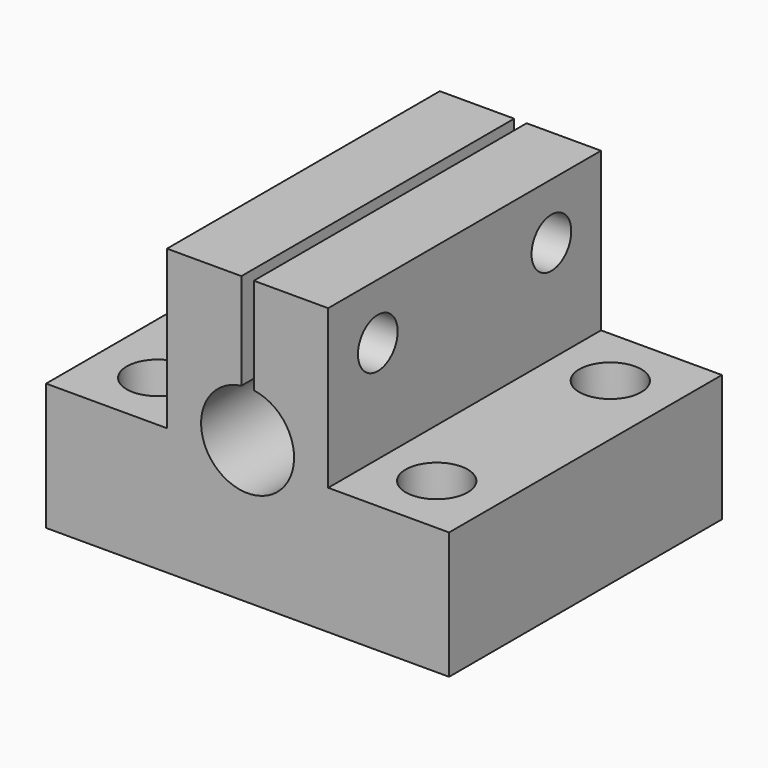
from build123d import *

# Parameters (mm, degrees)
F0_W      = 65
F0_H      = 55
F1_DEPTH  = 20.5
F2_W      = 12
F2_H      = 55
F3_DEPTH  = 25.5
F5_DEPTH  = 74.8
F7_DEPTH  = 37.2
F9_R      = 5
F9_R_2    = 3.3
F10_DEPTH = 6
F8_R      = 3.3
F11_DEPTH = 45.5


with BuildPart() as f1:
    # F0 (on Top) → F1 (new body)
    with BuildSketch(Plane.XY):
        with Locations((32.5, 27.5)):
            Rectangle(F0_W, F0_H)
    extrude(amount=F1_DEPTH)

    # F2 (on face) → F3 (join)
    with BuildSketch(Plane.XY.offset(20.5)):
        with Locations((25.5, 27.5)):
            Rectangle(F2_W, F2_H)
        with Locations((39.5, 27.5)):
            Rectangle(F2_W, F2_H)
    extrude(amount=F3_DEPTH)

    # F4 (on face) → F5 (cut)
    with BuildSketch(Plane.XZ):
        with BuildLine():
            ThreePointArc((25, 23), (32.5, 15.5), (40, 23))
            ThreePointArc((40, 23), (32.5, 30.5), (25, 23))
        make_face()
    extrude(amount=-F5_DEPTH, mode=Mode.SUBTRACT)

    # F6 (on face) → F7 (cut)
    with BuildSketch(Plane(origin=(19.5, 0, 0), x_dir=(0, -1, 0), z_dir=(-1, 0, 0))):
        with BuildLine():
            ThreePointArc((-45, 41), (-47.8284271247, 34.1715728753), (-41, 37))
            ThreePointArc((-41, 37), (-42.1715728753, 39.8284271247), (-45, 41))
        make_face()
        with BuildLine():
            ThreePointArc((-10, 41), (-12.8284271247, 34.1715728753), (-6, 37))
            ThreePointArc((-6, 37), (-7.1715728753, 39.8284271247), (-10, 41))
        make_face()
    extrude(amount=-F7_DEPTH, mode=Mode.SUBTRACT)

    # F9 (on face) → F10 (cut)
    with BuildSketch(Plane.XY.offset(20.5)):
        with Locations((55, 45)):
            Circle(F9_R)
        with Locations((55, 45)):
            Circle(F9_R_2, mode=Mode.SUBTRACT)
        with BuildLine():
            ThreePointArc((15, 45), (10, 50), (5, 45))
            ThreePointArc((5, 45), (10, 40), (15, 45))
        make_face()
        with BuildLine():
            ThreePointArc((13.3, 45), (10, 41.7), (6.7, 45))
            ThreePointArc((6.7, 45), (10, 48.3), (13.3, 45))
        make_face(mode=Mode.SUBTRACT)
        with BuildLine():
            ThreePointArc((15, 10), (6.4644660941, 13.5355339059), (10, 5))
            ThreePointArc((10, 5), (13.5355339059, 6.4644660941), (15, 10))
        make_face()
        with BuildLine():
            ThreePointArc((13.3, 10), (12.3334523779, 7.6665476221), (10, 6.7))
            ThreePointArc((10, 6.7), (7.6665476221, 12.3334523779), (13.3, 10))
        make_face(mode=Mode.SUBTRACT)
        with Locations((55, 10)):
            Circle(F9_R)
        with Locations((55, 10)):
            Circle(F9_R_2, mode=Mode.SUBTRACT)
    extrude(amount=-F10_DEPTH, mode=Mode.SUBTRACT)

    # F8 (on face) → F11 (cut)
    with BuildSketch(Plane(origin=(0, 0, 0), x_dir=(1, 0, 0), z_dir=(0, 0, -1))):
        with BuildLine():
            ThreePointArc((13.3, -45), (7.6665476221, -42.6665476221), (10, -48.3))
            ThreePointArc((10, -48.3), (12.3334523779, -47.3334523779), (13.3, -45))
        make_face()
        with BuildLine():
            ThreePointArc((58.3, -45), (52.6665476221, -42.6665476221), (55, -48.3))
            ThreePointArc((55, -48.3), (57.3334523779, -47.3334523779), (58.3, -45))
        make_face()
        with Locations((55, -10)):
            Circle(F8_R)
        with BuildLine():
            ThreePointArc((13.3, -10), (10, -6.7), (6.7, -10))
            ThreePointArc((6.7, -10), (10, -13.3), (13.3, -10))
        make_face()
    extrude(amount=-F11_DEPTH, mode=Mode.SUBTRACT)


solid = f1.part
